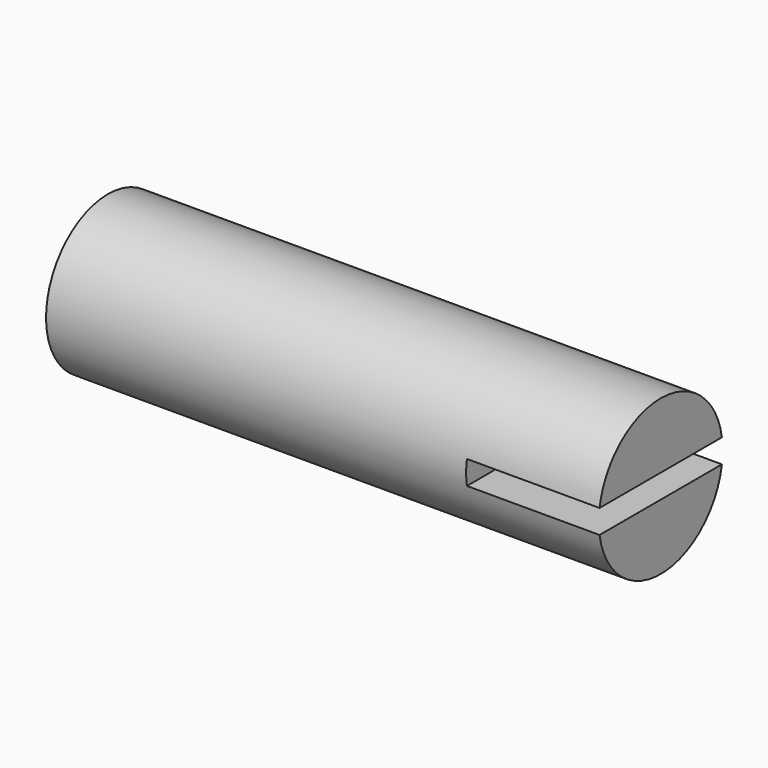
from build123d import *

# Parameters (mm, degrees)
F0_W     = 25
F0_H     = 3.5
F3_DEPTH = 6


with BuildPart() as f1:
    # F0 (on Front) → F1 (revolve)
    with BuildSketch(Plane.XZ):
        with Locations((12.5, 1.75)):
            Rectangle(F0_W, F0_H)
    revolve(axis=Axis((12.5, 0, 0), (1, 0, 0)))

    # F2 (on face) → F3 (cut)
    with BuildSketch(Plane.YZ.offset(25)):
        with BuildLine():
            Line((-3.458483, -0.537491), (3.458483, -0.537491))
            ThreePointArc((3.458483, -0.537491), (3.489605, -0.269546), (3.5, 0))
            ThreePointArc((3.5, 0), (3.489605, 0.269546), (3.458483, 0.537491))
            Line((3.458483, 0.537491), (-3.458483, 0.537491))
            ThreePointArc((-3.458483, 0.537491), (-3.5, 0), (-3.458483, -0.537491))
        make_face()
    extrude(amount=-F3_DEPTH, mode=Mode.SUBTRACT)


solid = f1.part
